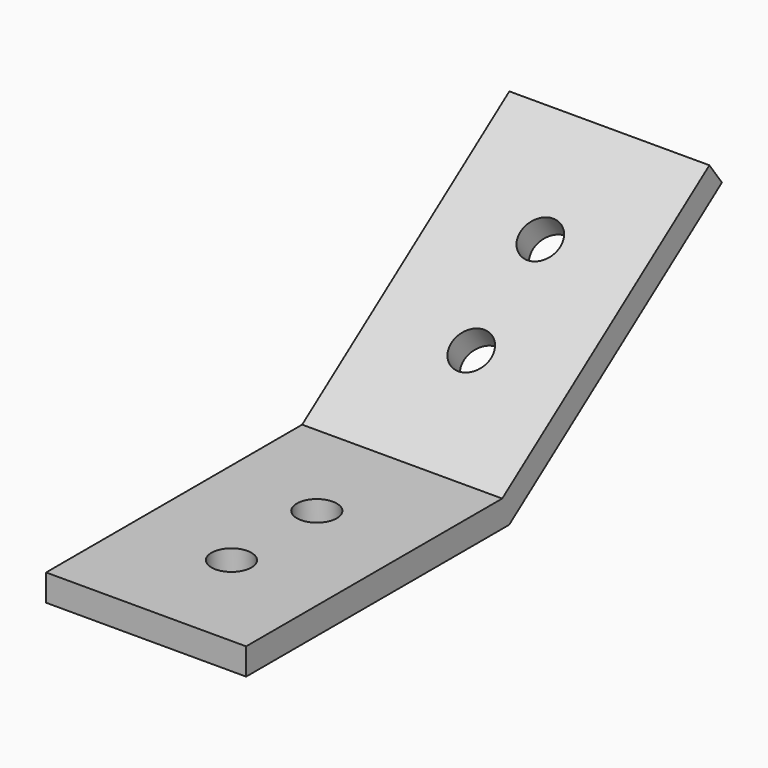
from build123d import *

# Parameters (mm, degrees)
F1_DEPTH = 23.8125
F3_DEPTH = 25.4
F5_DEPTH = 25.4


with BuildPart() as f1:
    # F0 (on Right) → F1 (new body)
    with BuildSketch(Plane.YZ):
        Polygon((30.8235474857, 22.3946181123), (0, 0), (-38.1, 0), (-38.1, -3.175), (1.0316200355, -3.175), (32.6897656617, 19.8259891552), align=None)
    extrude(amount=F1_DEPTH)

    # F2 (on face) → F3 (cut)
    with BuildSketch(Plane.XY):
        with BuildLine():
            ThreePointArc((11.90625, -23.01875), (9.525, -25.4), (11.90625, -27.78125))
            Line((11.90625, -27.78125), (11.90625, -23.01875))
        make_face()
        with BuildLine():
            ThreePointArc((11.90625, -10.31875), (9.525, -12.7), (11.90625, -15.08125))
            Line((11.90625, -15.08125), (11.90625, -10.31875))
        make_face()
        with BuildLine():
            Line((11.90625, -10.31875), (11.90625, -15.08125))
            ThreePointArc((11.90625, -15.08125), (13.5900480227, -14.3837980227), (14.2875, -12.7))
            ThreePointArc((14.2875, -12.7), (13.5900480227, -11.0162019773), (11.90625, -10.31875))
        make_face()
        with BuildLine():
            Line((11.90625, -23.01875), (11.90625, -27.78125))
            ThreePointArc((11.90625, -27.78125), (13.5900480227, -27.0837980227), (14.2875, -25.4))
            ThreePointArc((14.2875, -25.4), (13.5900480227, -23.7162019773), (11.90625, -23.01875))
        make_face()
    extrude(amount=-F3_DEPTH, mode=Mode.SUBTRACT)

    # F4 (on face) → F5 (cut)
    with BuildSketch(Plane(origin=(0, 0, 0), x_dir=(1, 0, 0), z_dir=(0, -0.5877852523, 0.8090169944))):
        with BuildLine():
            ThreePointArc((11.90625, 15.08125), (9.525, 12.7), (11.90625, 10.31875))
            Line((11.90625, 10.31875), (11.90625, 15.08125))
        make_face()
        with BuildLine():
            ThreePointArc((11.90625, 27.78125), (9.525, 25.4), (11.90625, 23.01875))
            Line((11.90625, 23.01875), (11.90625, 27.78125))
        make_face()
        with BuildLine():
            Line((11.90625, 27.78125), (11.90625, 23.01875))
            ThreePointArc((11.90625, 23.01875), (13.5900480227, 23.7162019773), (14.2875, 25.4))
            ThreePointArc((14.2875, 25.4), (13.5900480227, 27.0837980227), (11.90625, 27.78125))
        make_face()
        with BuildLine():
            Line((11.90625, 15.08125), (11.90625, 10.31875))
            ThreePointArc((11.90625, 10.31875), (13.5900480227, 11.0162019773), (14.2875, 12.7))
            ThreePointArc((14.2875, 12.7), (13.5900480227, 14.3837980227), (11.90625, 15.08125))
        make_face()
    extrude(amount=-F5_DEPTH, mode=Mode.SUBTRACT)


solid = f1.part
